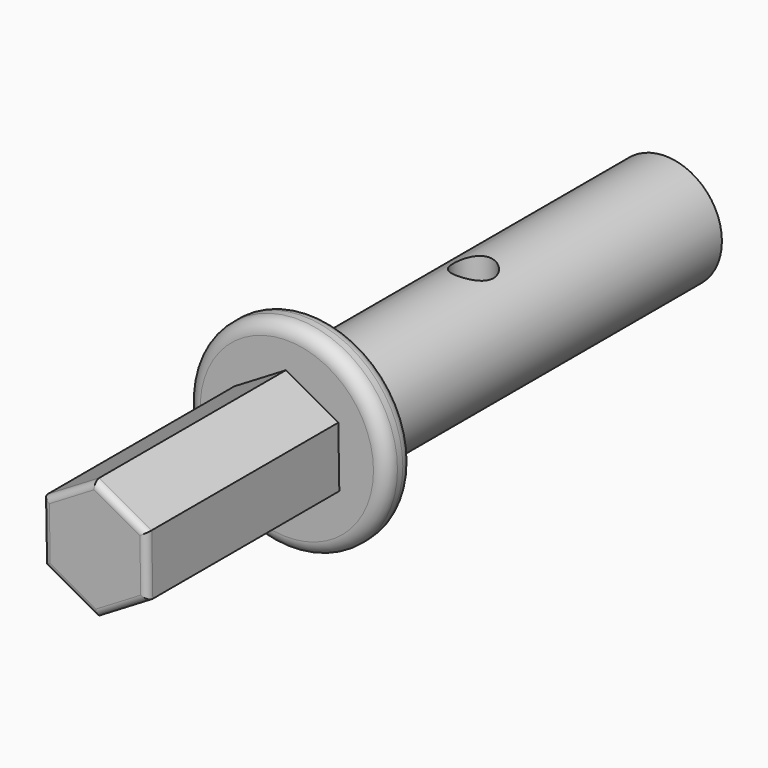
from build123d import *

# Parameters (mm, degrees)
F0_R      = 4.25
F1_DEPTH  = 33
F2_DEPTH  = 6
F3_R      = 7.5
F3_R_2    = 4.25
F4_DEPTH  = 2.5
F6_DEPTH  = 18
F7_R      = 0.5
F8_R      = 1
F10_R     = 1.5
F11_DEPTH = 40
F12_DEPTH = 25


with BuildPart() as f1:
    # F0 (on Front) → F1 (new body)
    with BuildSketch(Plane.XZ):
        Circle(F0_R)
        Polygon((-1.375, 2.38157), (2.75, 0), (-1.375, -2.38157), align=None, mode=Mode.SUBTRACT)
        Polygon((-1.375, -2.38157), (2.75, 0), (-1.375, 2.38157), align=None)
    extrude(amount=F1_DEPTH)

    # F0 (on Front) → F2 (cut)
    with BuildSketch(Plane.XZ):
        Polygon((-1.375, -2.38157), (2.75, 0), (-1.375, 2.38157), align=None)
    extrude(amount=F2_DEPTH, mode=Mode.SUBTRACT)

    # F3 (on face) → F4 (join)
    with BuildSketch(Plane.XZ.offset(33)):
        Circle(F3_R)
        Circle(F3_R_2, mode=Mode.SUBTRACT)
        Circle(F3_R_2)
    extrude(amount=F4_DEPTH)

    # F5 (on face) → F6 (join)
    with BuildSketch(Plane.XZ.offset(35.5)):
        Polygon((0.076423, -4.499351), (3.934764, -2.183492), (3.858341, 2.315859), (-0.076423, 4.499351), (-3.934764, 2.183492), (-3.858341, -2.315859), align=None)
    extrude(amount=F6_DEPTH)

    # F7
    f7_edges = [f1.edges().sort_by_distance(p)[0] for p in [
        (2.005593, -53.5, -3.341421),
        (-1.890959, -53.5, -3.407605),
        (-3.896552, -53.5, -0.066184),
        (-2.005593, -53.5, 3.341421),
        (1.890959, -53.5, 3.407605),
        (3.896552, -53.5, 0.066184),
    ]]
    fillet(f7_edges, radius=F7_R)

    # F8
    f8_edges = [f1.edges().sort_by_distance(p)[0] for p in [
        (-7.5, -35.5, 0),
        (-7.5, -33, 0),
    ]]
    fillet(f8_edges, radius=F8_R)

    # F10 (on offset) → F11 (cut)
    with BuildSketch(Plane.XY.offset(25)):
        with Locations((0, -18)):
            Circle(F10_R)
    extrude(amount=-F11_DEPTH, mode=Mode.SUBTRACT)

    # F0 (on Front) → F12 (join)
    with BuildSketch(Plane.XZ):
        Polygon((-1.375, -2.38157), (2.75, 0), (-1.375, 2.38157), align=None)
    extrude(amount=F12_DEPTH)


solid = f1.part
